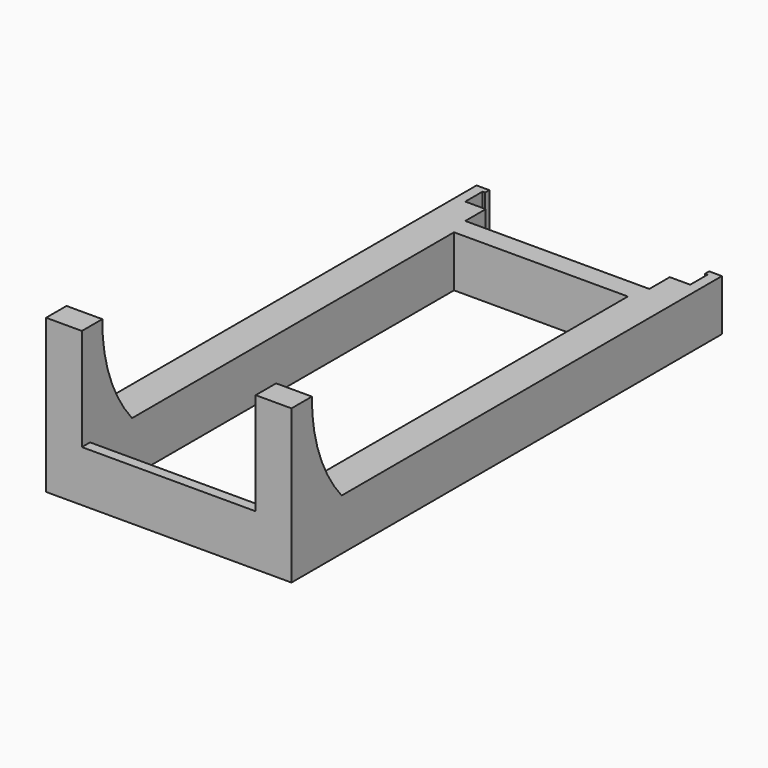
from build123d import *

# Parameters (mm, degrees)
SKETCH_W     = 34
SKETCH_H     = 89
PAD_DEPTH    = 10
PAD001_DEPTH = 7
PAD002_DEPTH = 7


with BuildPart() as part:
    # Sketch → Pad (new body)
    with BuildSketch(Plane.XY):
        Polygon((-22, 0), (-18, 0), (-18, -5), (18, -5), (18, 0), (22, 0), (22, 4.25), (21.5, 4.25), (21.5, 5.25), (24, 5.25), (24, -100), (-24, -100), (-24, 5.25), (-21.5, 5.25), (-21.5, 4.25), (-22, 4.25), align=None)
        with Locations((0, -53.5)):
            Rectangle(SKETCH_W, SKETCH_H, mode=Mode.SUBTRACT)
    extrude(amount=PAD_DEPTH)

    # Sketch001 (on DatumPlane) → Pad001 (join)
    with BuildSketch(Plane.YZ.offset(-17)):
        with BuildLine():
            Line((-100, 0), (-100, 30))
            Line((-95, 30), (-100, 30))
            ThreePointArc((-95, 30), (-88.049566, 10.375362), (-70, 0))
            Line((-100, 0), (-70, 0))
        make_face()
    extrude(amount=-PAD001_DEPTH)

    # Sketch002 (on DatumPlane) → Pad002 (join)
    with BuildSketch(Plane.YZ.offset(17)):
        with BuildLine():
            Line((-100, 0), (-100, 30))
            Line((-95, 30), (-100, 30))
            ThreePointArc((-95, 30), (-88.049566, 10.375362), (-70, 0))
            Line((-100, 0), (-70, 0))
        make_face()
    extrude(amount=PAD002_DEPTH)


solid = part.part
